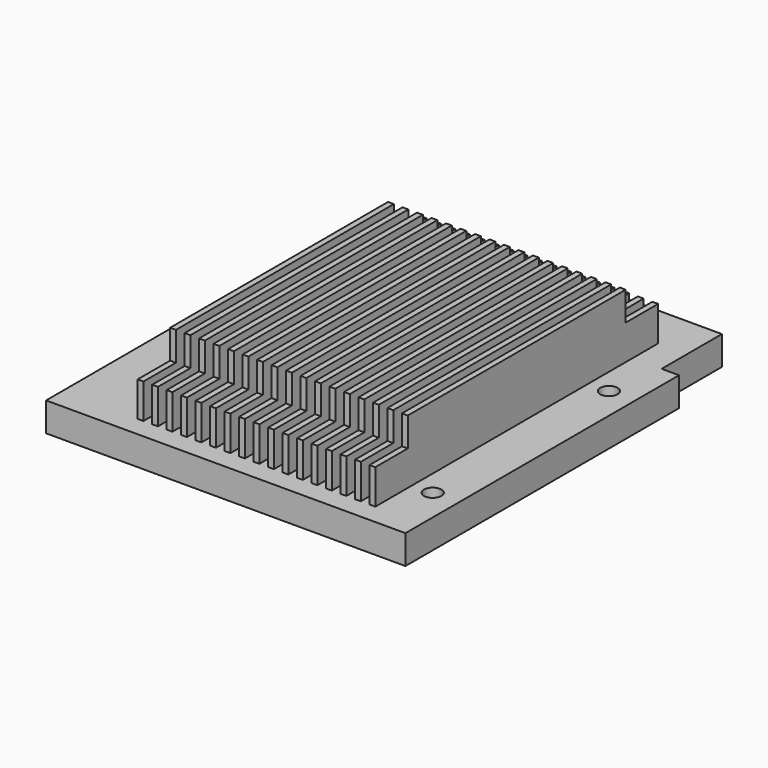
from build123d import *

# Parameters (mm, degrees)
F1_DEPTH = 5
F3_DEPTH = 11
F2_W     = 1
F2_H     = 7
F4_DEPTH = 6
F5_D     = 3


with BuildPart() as f1:
    # F0 (on Top) → F1 (new body)
    with BuildSketch(Plane.XY):
        Polygon((8.783761, 49.804577), (-50.216239, 49.804577), (-50.216239, -22.195423), (11.783761, -22.195423), (11.783761, 36.804577), (8.783761, 36.804577), align=None)
    extrude(amount=F1_DEPTH)

    # F2 (on face) → F3 (join)
    with BuildSketch(Plane.XY.offset(5)):
        Polygon((-37.216239, 35.304577), (-37.216239, 13.804577), (-37.216239, -11.695423), (-36.216239, -11.695423), (-36.216239, 35.304577), align=None)
        Polygon((-33.716239, -11.695423), (-33.716239, 35.304577), (-34.716239, 35.304577), (-34.716239, 13.804577), (-34.716239, -11.695423), align=None)
        Polygon((-31.216239, -11.695423), (-31.216239, 35.304577), (-32.216239, 35.304577), (-32.216239, 13.804577), (-32.216239, -11.695423), align=None)
        Polygon((-28.716239, -11.695423), (-28.716239, 35.304577), (-29.716239, 35.304577), (-29.716239, 13.804577), (-29.716239, -11.695423), align=None)
        Polygon((-26.216239, -11.695423), (-26.216239, 35.304577), (-27.216239, 35.304577), (-27.216239, 13.804577), (-27.216239, -11.695423), align=None)
        Polygon((-23.716239, -11.695423), (-23.716239, 35.304577), (-24.716239, 35.304577), (-24.716239, 13.804577), (-24.716239, -11.695423), align=None)
        Polygon((-21.216239, -11.695423), (-21.216239, 35.304577), (-22.216239, 35.304577), (-22.216239, 13.804577), (-22.216239, -11.695423), align=None)
        Polygon((-19.716239, -11.695423), (-18.716239, -11.695423), (-18.716239, 35.304577), (-19.716239, 35.304577), (-19.716239, 13.804577), align=None)
        Polygon((-16.216239, -11.695423), (-16.216239, 35.304577), (-17.216239, 35.304577), (-17.216239, 13.804577), (-17.216239, -11.695423), align=None)
        Polygon((-13.716239, -11.695423), (-13.716239, 35.304577), (-14.716239, 35.304577), (-14.716239, 13.804577), (-14.716239, -11.695423), align=None)
        Polygon((-11.216239, -11.695423), (-11.216239, 35.304577), (-12.216239, 35.304577), (-12.216239, 13.804577), (-12.216239, -11.695423), align=None)
        Polygon((-8.716239, -11.695423), (-8.716239, 35.304577), (-9.716239, 35.304577), (-9.716239, 13.804577), (-9.716239, -11.695423), align=None)
        Polygon((-6.216239, -11.695423), (-6.216239, 35.304577), (-7.216239, 35.304577), (-7.216239, 13.804577), (-7.216239, -11.695423), align=None)
        Polygon((-3.716239, -11.695423), (-3.716239, 35.304577), (-4.716239, 35.304577), (-4.716239, 13.804577), (-4.716239, -11.695423), align=None)
        Polygon((-1.216239, -11.695423), (-1.216239, 35.304577), (-2.216239, 35.304577), (-2.216239, 13.804577), (-2.216239, -11.695423), align=None)
        Polygon((1.283761, -11.695423), (1.283761, 35.304577), (0.283761, 35.304577), (0.283761, 13.804577), (0.283761, -11.695423), align=None)
        Polygon((3.783761, -11.695423), (3.783761, 35.304577), (2.783761, 35.304577), (2.783761, 13.804577), (2.783761, -11.695423), align=None)
    extrude(amount=F3_DEPTH)

    # F2 (on face) → F4 (join)
    with BuildSketch(Plane.XY.offset(5)):
        with Locations((-36.716239, 38.804577)):
            Rectangle(F2_W, F2_H)
        with Locations((-34.216239, 38.804577)):
            Rectangle(F2_W, F2_H)
        with Locations((-31.716239, 38.804577)):
            Rectangle(F2_W, F2_H)
        with Locations((-29.216239, 38.804577)):
            Rectangle(F2_W, F2_H)
        with Locations((-26.716239, 38.804577)):
            Rectangle(F2_W, F2_H)
        with Locations((-24.216239, 38.804577)):
            Rectangle(F2_W, F2_H)
        with Locations((-21.716239, 38.804577)):
            Rectangle(F2_W, F2_H)
        with Locations((-19.216239, 38.804577)):
            Rectangle(F2_W, F2_H)
        with Locations((-16.716239, 38.804577)):
            Rectangle(F2_W, F2_H)
        with Locations((-14.216239, 38.804577)):
            Rectangle(F2_W, F2_H)
        with Locations((-11.716239, 38.804577)):
            Rectangle(F2_W, F2_H)
        with Locations((-9.216239, 38.804577)):
            Rectangle(F2_W, F2_H)
        with Locations((-6.716239, 38.804577)):
            Rectangle(F2_W, F2_H)
        with Locations((-4.216239, 38.804577)):
            Rectangle(F2_W, F2_H)
        with Locations((-1.716239, 38.804577)):
            Rectangle(F2_W, F2_H)
        with Locations((0.783761, 38.804577)):
            Rectangle(F2_W, F2_H)
        with Locations((3.283761, 38.804577)):
            Rectangle(F2_W, F2_H)
        with Locations((3.283761, -15.195423)):
            Rectangle(F2_W, F2_H)
        with Locations((0.783761, -15.195423)):
            Rectangle(F2_W, F2_H)
        with Locations((-1.716239, -15.195423)):
            Rectangle(F2_W, F2_H)
        with Locations((-4.216239, -15.195423)):
            Rectangle(F2_W, F2_H)
        with Locations((-6.716239, -15.195423)):
            Rectangle(F2_W, F2_H)
        with Locations((-9.216239, -15.195423)):
            Rectangle(F2_W, F2_H)
        with Locations((-11.716239, -15.195423)):
            Rectangle(F2_W, F2_H)
        with Locations((-14.216239, -15.195423)):
            Rectangle(F2_W, F2_H)
        with Locations((-16.716239, -15.195423)):
            Rectangle(F2_W, F2_H)
        Polygon((-19.716239, -18.695423), (-19.216239, -18.695423), (-18.716239, -18.695423), (-18.716239, -11.695423), (-19.716239, -11.695423), align=None)
        with Locations((-21.716239, -15.195423)):
            Rectangle(F2_W, F2_H)
        with Locations((-24.216239, -15.195423)):
            Rectangle(F2_W, F2_H)
        with Locations((-26.716239, -15.195423)):
            Rectangle(F2_W, F2_H)
        with Locations((-29.216239, -15.195423)):
            Rectangle(F2_W, F2_H)
        with Locations((-31.716239, -15.195423)):
            Rectangle(F2_W, F2_H)
        with Locations((-34.216239, -15.195423)):
            Rectangle(F2_W, F2_H)
        with Locations((-36.716239, -15.195423)):
            Rectangle(F2_W, F2_H)
    extrude(amount=F4_DEPTH)

    # F5 (through all)
    with Locations(Plane.XY.offset(5)):
        with Locations((-40.716239, 27.304577), (7.283761, 27.304577), (7.283761, -10.695423), (-40.716239, -10.695423)):
            Hole(F5_D / 2)


solid = f1.part
